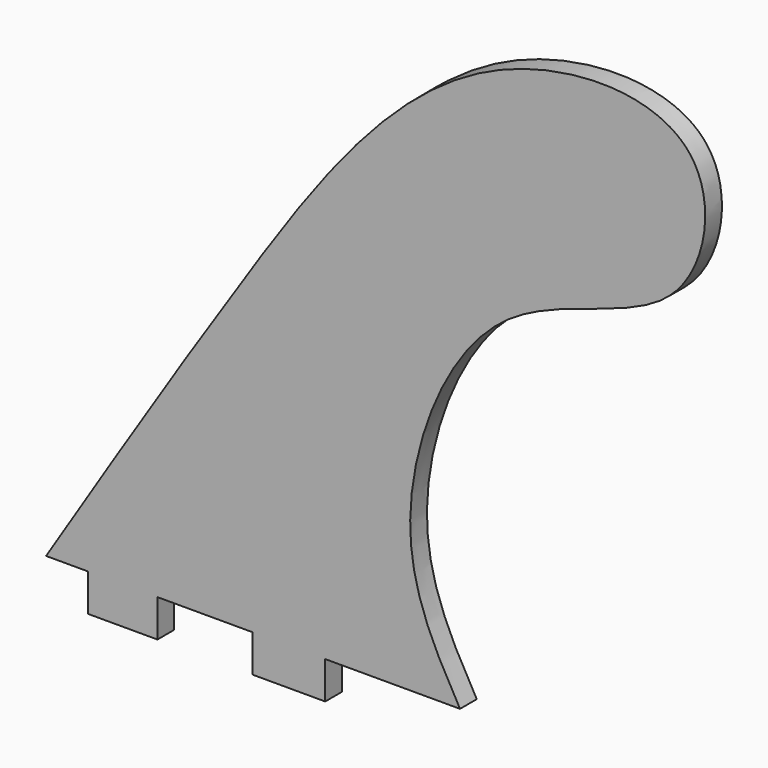
from build123d import *

# Parameters (mm, degrees)
F1_DEPTH = 7.7026672661


with BuildPart() as f1:
    # F0 (on Front) → F1 (new body)
    with BuildSketch(Plane.XZ):
        with BuildLine():
            add(Edge.make_bspline(
                [(76.3590037823, -44.6444749832), (67.345614377, -28.8287574714), (47.224908137, 6.4768568717), (82.1276476287, 101.2471289792), (163.1667846029, 100.8134668474), (174.8771278968, 178.1795772877), (72.0506870398, 178.1201206673), (-2.8040719102, 71.1504721282), (-51.1326226807, -5.4489700389), (-75.8620649576, -44.6444749832)],
                knots=[0, 0, 0, 0, 0.1178593764, 0.2630989402, 0.3935780673, 0.5019658908, 0.6359233319, 0.81370397, 1, 1, 1, 1], degree=3))
            Line((-75.8620649576, -44.6444749832), (-60.5052411556, -44.6444749832))
            Line((-60.5052411556, -44.6444749832), (-60.5052411556, -58.3847761154))
            Line((-60.5052411556, -58.3847761154), (-34.9105447531, -58.3847761154))
            Line((-34.9105447531, -58.3847761154), (-34.9105447531, -44.6444749832))
            Line((-34.9105447531, -44.6444749832), (0, -44.6444749832))
            Line((0, -44.6444749832), (0, -58.3847761154))
            Line((0, -58.3847761154), (26.7861187458, -58.3847761154))
            Line((26.7861187458, -58.3847761154), (26.7861187458, -44.6444749832))
            Line((26.7861187458, -44.6444749832), (76.3590037823, -44.6444749832))
        make_face()
    extrude(amount=F1_DEPTH)


solid = f1.part
